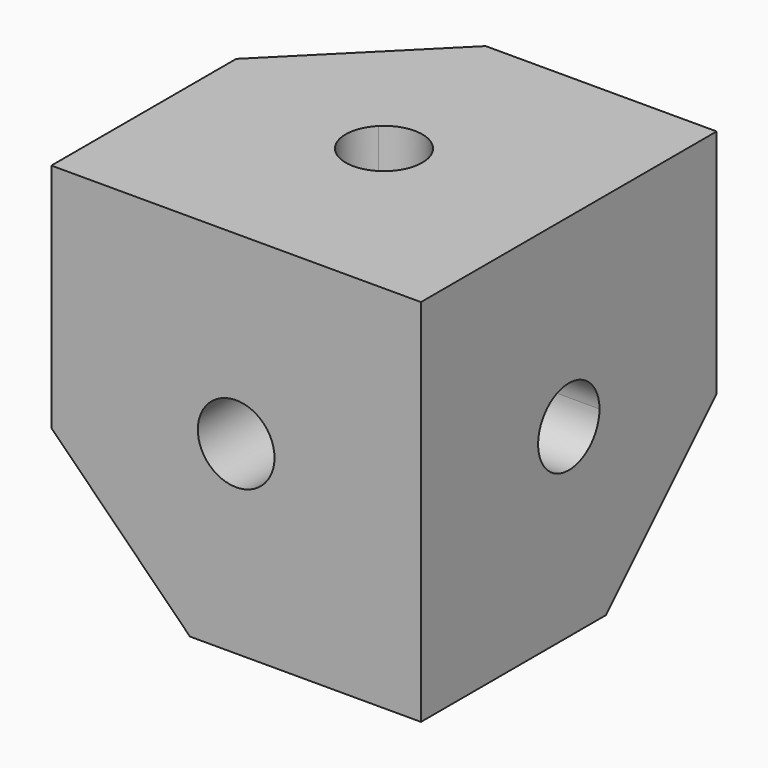
from build123d import *

# Parameters (mm, degrees)
F0_W     = 40
F0_H     = 40
F1_DEPTH = 40
F3_DEPTH = 16
F5_DEPTH = 16
F7_DEPTH = 16
F8_SIZE  = 15


with BuildPart() as f1:
    # F0 (on Top) → F1 (new body)
    with BuildSketch(Plane.XY):
        with Locations((20, 20)):
            Rectangle(F0_W, F0_H)
    extrude(amount=F1_DEPTH)

    # F2 (on face) → F3 (cut)
    with BuildSketch(Plane.XZ):
        with BuildLine():
            ThreePointArc((24.15, 20), (21.5881362443, 23.8341000599), (17.0655068581, 22.9344931419))
            Line((17.0655068581, 22.9344931419), (22.9344931419, 17.0655068581))
            ThreePointArc((22.9344931419, 17.0655068581), (23.8341000599, 18.4118637557), (24.15, 20))
        make_face()
        with BuildLine():
            Line((22.9344931419, 17.0655068581), (17.0655068581, 22.9344931419))
            ThreePointArc((17.0655068581, 22.9344931419), (17.0655068581, 17.0655068581), (22.9344931419, 17.0655068581))
        make_face()
    extrude(amount=-F3_DEPTH, mode=Mode.SUBTRACT)

    # F4 (on face) → F5 (cut)
    with BuildSketch(Plane.YZ.offset(40)):
        with BuildLine():
            ThreePointArc((24.15, 20), (21.5881362443, 23.8341000599), (17.0655068581, 22.9344931419))
            Line((17.0655068581, 22.9344931419), (22.9344931419, 17.0655068581))
            ThreePointArc((22.9344931419, 17.0655068581), (23.8341000599, 18.4118637557), (24.15, 20))
        make_face()
        with BuildLine():
            Line((22.9344931419, 17.0655068581), (17.0655068581, 22.9344931419))
            ThreePointArc((17.0655068581, 22.9344931419), (17.0655068581, 17.0655068581), (22.9344931419, 17.0655068581))
        make_face()
    extrude(amount=-F5_DEPTH, mode=Mode.SUBTRACT)

    # F6 (on face) → F7 (cut)
    with BuildSketch(Plane.XY.offset(40)):
        with BuildLine():
            ThreePointArc((24.15, 20), (21.5881362443, 23.8341000599), (17.0655068581, 22.9344931419))
            Line((17.0655068581, 22.9344931419), (22.9344931419, 17.0655068581))
            ThreePointArc((22.9344931419, 17.0655068581), (23.8341000599, 18.4118637557), (24.15, 20))
        make_face()
        with BuildLine():
            Line((22.9344931419, 17.0655068581), (17.0655068581, 22.9344931419))
            ThreePointArc((17.0655068581, 22.9344931419), (17.0655068581, 17.0655068581), (22.9344931419, 17.0655068581))
        make_face()
    extrude(amount=-F7_DEPTH, mode=Mode.SUBTRACT)

    # F8
    f8_edges = [f1.edges().sort_by_distance(p)[0] for p in [
        (20, 40, 0),
        (0, 20, 0),
        (0, 40, 20),
    ]]
    chamfer(f8_edges, length=F8_SIZE)


solid = f1.part
